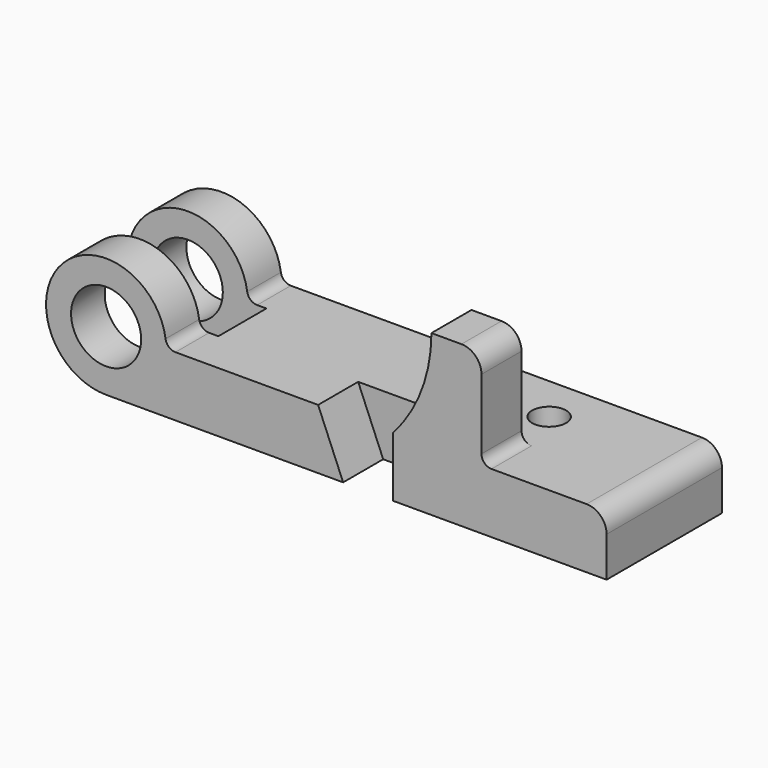
from build123d import *

# Parameters (mm, degrees)
F0_R     = 7
F1_DEPTH = 28.8
F2_DEPTH = 10
F3_DEPTH = 10
F4_W     = 27.706493
F4_H     = 12
F4_R     = 3.4
F5_DEPTH = 29.9


with BuildPart() as f1:
    # F0 (on Front) → F1 (new body)
    with BuildSketch(Plane.XZ):
        with BuildLine():
            ThreePointArc((-40.688801, 13.714286), (-61.636868, 19.855844), (-52.56572, 0))
            Line((-52.56572, 0), (-5.20572, 0))
            Line((-5.20572, 0), (-10.20572, 12))
            Line((-10.20572, 12), (-38.709314, 12))
            ThreePointArc((-38.709314, 12), (-40.018621, 12.488142), (-40.688801, 13.714286))
        make_face()
        with Locations((-52.56572, 12)):
            Circle(F0_R, mode=Mode.SUBTRACT)
        with BuildLine():
            Line((4.79428, 12), (4.79428, 0))
            Line((4.79428, 0), (47.43428, 0))
            Line((47.43428, 0), (47.43428, 8))
            ThreePointArc((47.43428, 8), (46.262707, 10.828427), (43.43428, 12))
            Line((43.43428, 12), (24.43428, 12))
            Line((24.43428, 12), (4.79428, 12))
        make_face()
        Polygon((-10.20572, 12), (-5.20572, 0), (4.79428, 0), (4.79428, 12), align=None)
    extrude(amount=-F1_DEPTH)

    # F0 (on Front) → F2 (join)
    with BuildSketch(Plane.XZ):
        with BuildLine():
            ThreePointArc((12.43428, 32), (10.459133, 21.295266), (4.79428, 12))
            Line((4.79428, 12), (24.43428, 12))
            ThreePointArc((24.43428, 12), (23.020066, 12.585786), (22.43428, 14))
            Line((22.43428, 14), (22.43428, 28))
            ThreePointArc((22.43428, 28), (21.262707, 30.828427), (18.43428, 32))
            Line((18.43428, 32), (12.43428, 32))
        make_face()
    extrude(amount=-F2_DEPTH)

    # F0 (on Front) → F3 (cut)
    with BuildSketch(Plane.XZ):
        Polygon((-10.20572, 12), (-5.20572, 0), (4.79428, 0), (4.79428, 12), align=None)
    extrude(amount=-F3_DEPTH, mode=Mode.SUBTRACT)

    # F4 (on Top) → F5 (cut)
    with BuildSketch(Plane.XY):
        with Locations((-50.712474, 14.4)):
            Rectangle(F4_W, F4_H)
        with Locations((20.43428, 19.4)):
            Circle(F4_R)
    extrude(amount=F5_DEPTH, mode=Mode.SUBTRACT)


solid = f1.part
